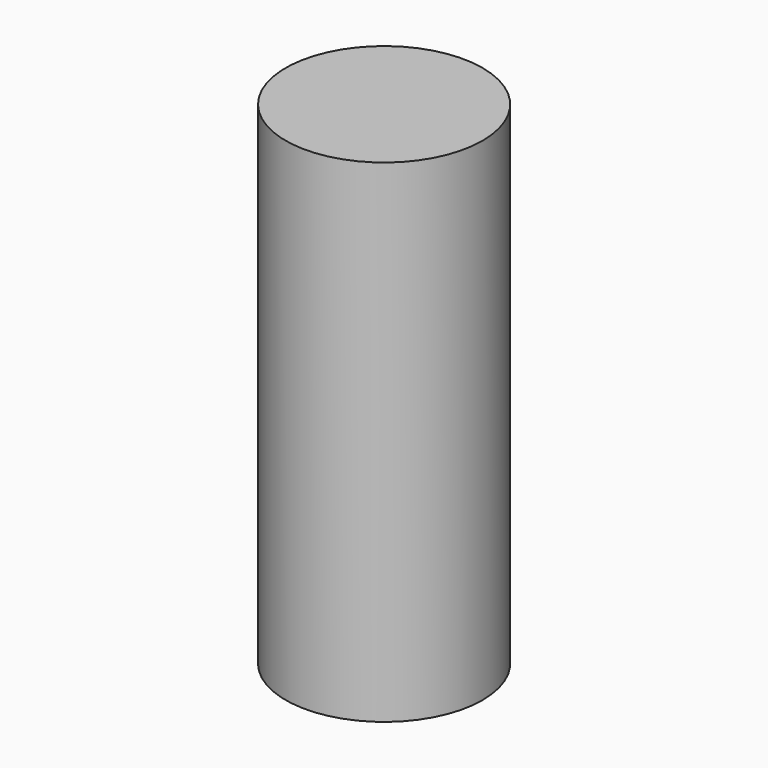
from build123d import *

# Parameters (mm, degrees)
SKETCH_R  = 2
PAD_DEPTH = 10


with BuildPart() as part:
    # Sketch → Pad (new body)
    with BuildSketch(Plane.XY):
        Circle(SKETCH_R)
    extrude(amount=PAD_DEPTH)


solid = part.part
